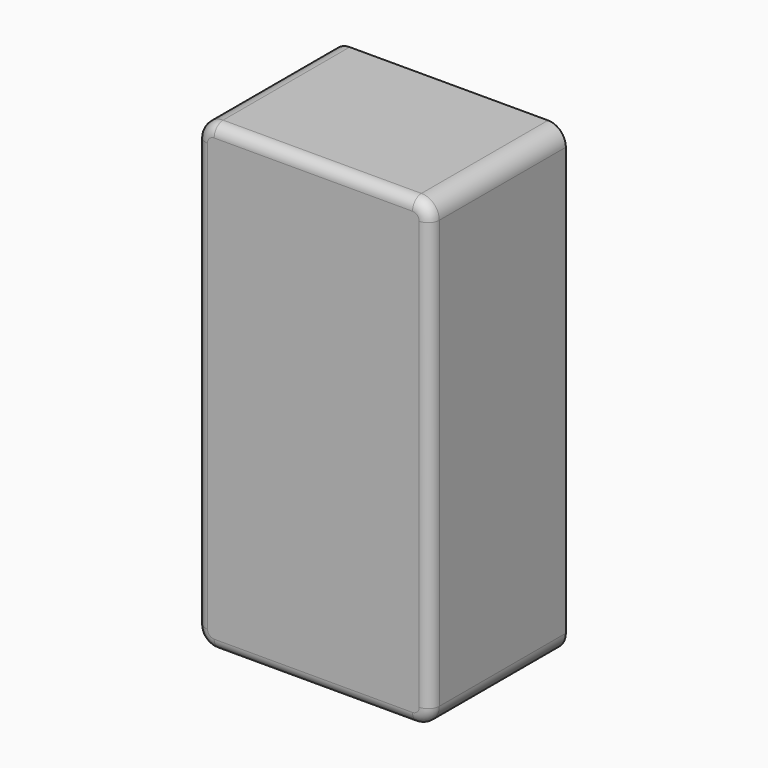
from build123d import *

# Parameters (mm, degrees)
F1_DEPTH = 76
F2_R     = 5


with BuildPart() as f1:
    # F0 (on Front) → F1 (new body)
    with BuildSketch(Plane.XZ):
        with BuildLine():
            Line((75.886622, 91.256353), (-13.113378, 91.256353))
            ThreePointArc((-13.113378, 91.256353), (-18.770232, 88.913208), (-21.113378, 83.256353))
            Line((-21.113378, 83.256353), (-21.113378, -108.743647))
            ThreePointArc((-21.113378, -108.743647), (-18.770232, -114.400501), (-13.113378, -116.743647))
            Line((-13.113378, -116.743647), (75.886622, -116.743647))
            ThreePointArc((75.886622, -116.743647), (81.543477, -114.400501), (83.886622, -108.743647))
            Line((83.886622, -108.743647), (83.886622, 83.256353))
            ThreePointArc((83.886622, 83.256353), (81.543477, 88.913208), (75.886622, 91.256353))
        make_face()
    extrude(amount=F1_DEPTH)

    # F2
    f2_edges = [f1.edges().sort_by_distance(p)[0] for p in [
        (-21.113378, -76, -12.743647),
    ]]
    fillet(f2_edges, radius=F2_R)


solid = f1.part
